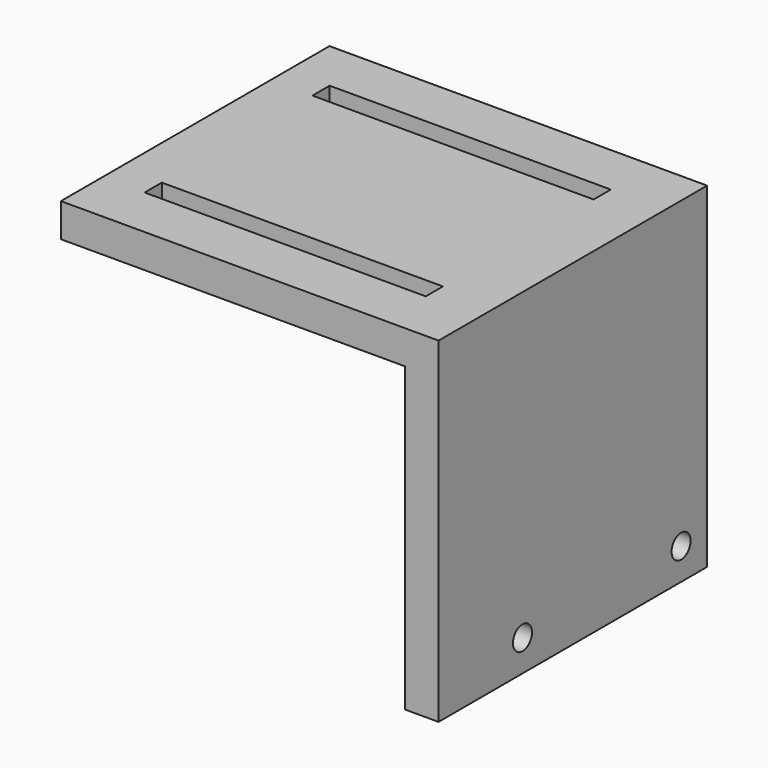
from build123d import *

# Parameters (mm, degrees)
F1_DEPTH = 50.8
F2_R     = 1.8
F3_DEPTH = 25.4
F4_W     = 42.545
F4_H     = 3.2512
F5_DEPTH = 25.4
F6_W     = 52.07
F6_H     = 6.604
F7_DEPTH = 1.905


with BuildPart() as f1:
    # F0 (on Front) → F1 (new body)
    with BuildSketch(Plane.XZ):
        Polygon((-5.08, 0), (0, 0), (0, 50.8), (-57.15, 50.8), (-57.15, 45.72), (-5.08, 45.72), align=None)
    extrude(amount=F1_DEPTH)

    # F2 (on face) → F3 (cut)
    with BuildSketch(Plane.YZ):
        with Locations((-34.925, 4.7625)):
            Circle(F2_R)
        with Locations((-4.925, 4.7625)):
            Circle(F2_R)
    extrude(amount=-F3_DEPTH, mode=Mode.SUBTRACT)

    # F4 (on face) → F5 (cut)
    with BuildSketch(Plane.XY.offset(50.8)):
        with Locations((-29.5275, -41.275)):
            Rectangle(F4_W, F4_H)
        with Locations((-29.5275, -9.525)):
            Rectangle(F4_W, F4_H)
    extrude(amount=-F5_DEPTH, mode=Mode.SUBTRACT)

    # F6 (on face) → F7 (cut)
    with BuildSketch(Plane(origin=(0, 0, 45.72), x_dir=(1, 0, 0), z_dir=(0, 0, -1))):
        with Locations((-31.115, 41.275)):
            Rectangle(F6_W, F6_H)
        with Locations((-31.115, 9.525)):
            Rectangle(F6_W, F6_H)
    extrude(amount=-F7_DEPTH, mode=Mode.SUBTRACT)


solid = f1.part
